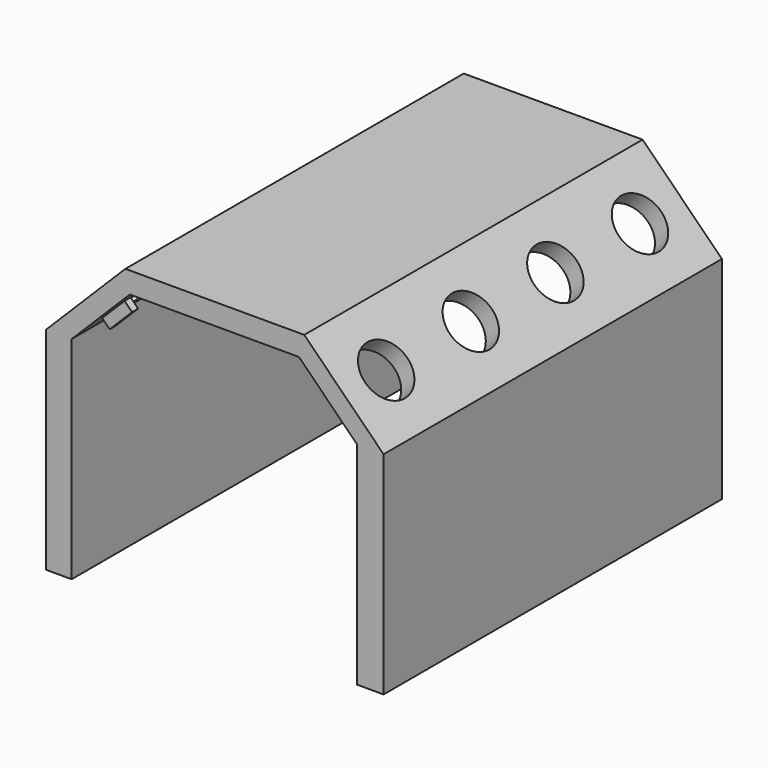
from build123d import *

# Parameters (mm, degrees)
F1_DEPTH = 101.6
F2_R     = 6.35
F3_DEPTH = 25.4
F4_R     = 6.35
F5_DEPTH = 25.4
F6_W     = 1.778
F6_H     = 7.62
F7_DEPTH = 2.54


with BuildPart() as f1:
    # F0 (on Front) → F1 (new body)
    with BuildSketch(Plane.XZ):
        Polygon((62.0224951868, 69.85), (19.05, 69.85), (0, 50.8), (0, 0), (6.1424951868, 0), (6.1424951868, 50.8), (20.1124951868, 64.77), (60.7524951868, 64.77), (74.7224951868, 50.8), (74.7224951868, 0), (81.0724951868, 0), (81.0724951868, 50.8), align=None)
    extrude(amount=F1_DEPTH)

    # F2 (on face) → F3 (cut)
    with BuildSketch(Plane(origin=(65.9362475934, 0, 65.9362475934), x_dir=(0, 1, 0), z_dir=(0.7071067812, 0, 0.7071067812))):
        with Locations((-12.7, -7.9355024484)):
            Circle(F2_R)
        with Locations((-38.1, -7.9355024484)):
            Circle(F2_R)
        with Locations((-63.5, -7.9355024484)):
            Circle(F2_R)
        with Locations((-88.9, -7.9355024484)):
            Circle(F2_R)
    extrude(amount=-F3_DEPTH, mode=Mode.SUBTRACT)

    # F4 (on face) → F5 (cut)
    with BuildSketch(Plane(origin=(-25.4, 0, 25.4), x_dir=(0, -1, 0), z_dir=(-0.7071067812, 0, 0.7071067812))):
        with Locations((88.9, 49.3914086659)):
            Circle(F4_R)
        with Locations((63.5, 49.3914086659)):
            Circle(F4_R)
        with Locations((38.1, 49.3914086659)):
            Circle(F4_R)
        with Locations((12.7, 49.3914086659)):
            Circle(F4_R)
    extrude(amount=-F5_DEPTH, mode=Mode.SUBTRACT)

    # F6 (on face) → F7 (join)
    with BuildSketch(Plane(origin=(-22.3287524066, 0, 22.3287524066), x_dir=(0, 1, 0), z_dir=(0.7071067812, 0, -0.7071067812))):
        with Locations((-96.901, 50.1427062175)):
            Rectangle(F6_W, F6_H)
        with Locations((-81.153, 50.1427062175)):
            Rectangle(F6_W, F6_H)
        with Locations((-71.247, 50.1427062175)):
            Rectangle(F6_W, F6_H)
        with Locations((-55.499, 50.1427062175)):
            Rectangle(F6_W, F6_H)
        with Locations((-46.101, 50.1427062175)):
            Rectangle(F6_W, F6_H)
        with Locations((-30.353, 50.1427062175)):
            Rectangle(F6_W, F6_H)
        with Locations((-20.447, 50.1427062175)):
            Rectangle(F6_W, F6_H)
        with Locations((-4.699, 50.1427062175)):
            Rectangle(F6_W, F6_H)
    extrude(amount=F7_DEPTH)


solid = f1.part
